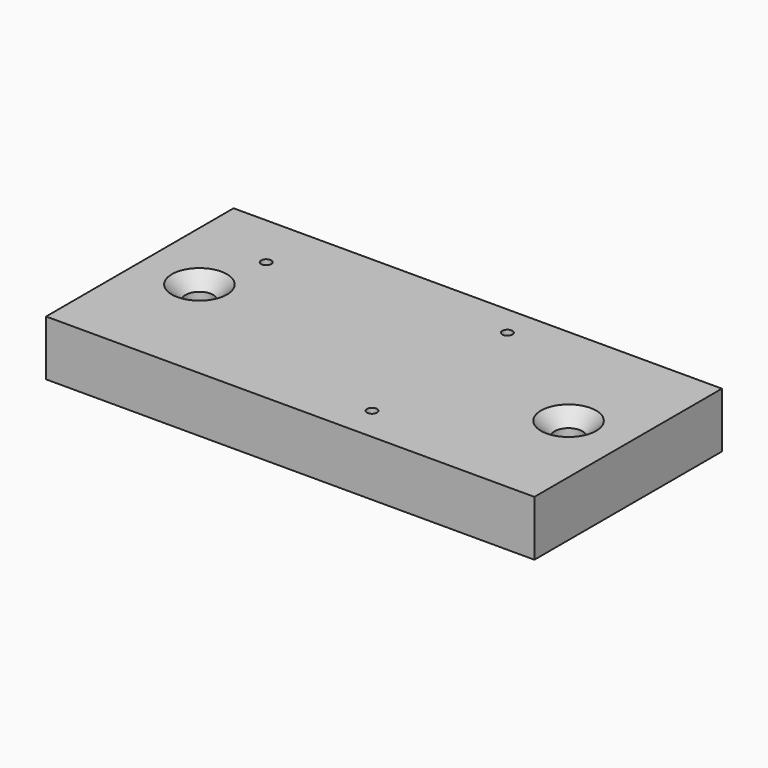
from build123d import *

# Parameters (mm, degrees)
F0_W           = 158.75
F0_H           = 76.2
F1_DEPTH       = 9
F3_D           = 9
F3_CSINK_D     = 17.92
F3_CSINK_ANGLE = 90
F5_D           = 3.3


with BuildPart() as f1:
    # F0 (on Top) → F1 (new body, symmetric)
    with BuildSketch(Plane.XY):
        Rectangle(F0_W, F0_H)
    extrude(amount=F1_DEPTH, both=True)

    # F3 (through all)
    with Locations(Plane.XY.offset(9)):
        with Locations((-60, 0), (60, 0)):
            CounterSinkHole(F3_D / 2, F3_CSINK_D / 2, counter_sink_angle=F3_CSINK_ANGLE)

    # F5 (through all)
    with Locations(Plane.XY.offset(9)):
        with Locations((-54.375, 20.1), (17.625, 28.1), (17.625, -26.9)):
            Hole(F5_D / 2)


solid = f1.part
